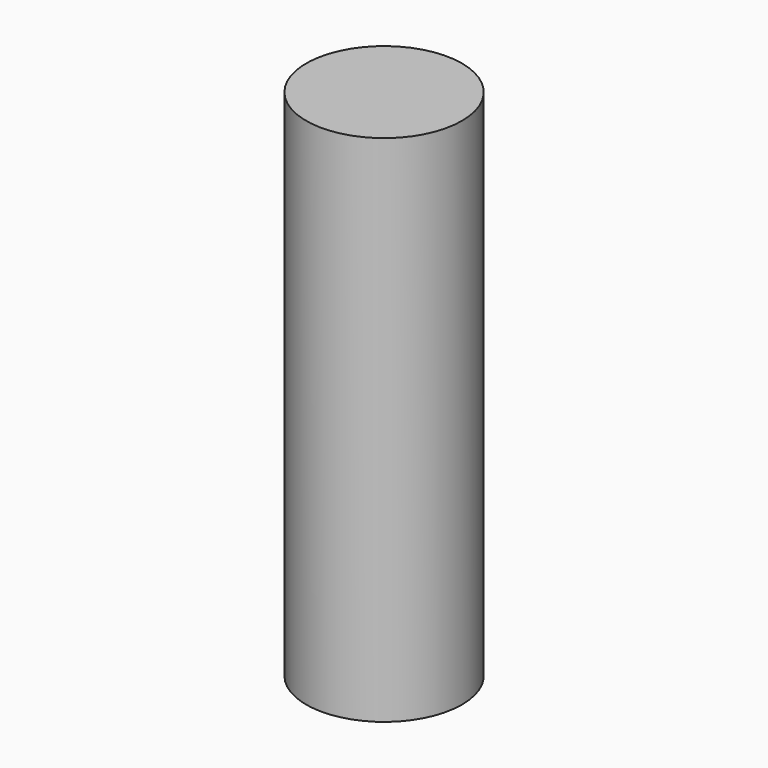
from build123d import *

# Parameters (mm, degrees)
F0_R       = 32.7181038806
F0_R_2     = 2.3607355304
F1_DEPTH   = 25.4
F2_DEPTH   = 64.008
F3_T       = -2.54
F5_R       = 42.4039305663
F6_DEPTH   = 25.4
F7_DEPTH   = 77.724
F8_R       = 42.4039305663
F7_FACE_R  = 42.4039305663
F6_FACE1_R = 42.4039305663
F9_DEPTH   = 127
F10_R      = 37.8949269506
F11_DEPTH  = 173.228
F12_DEPTH  = 279.908


with BuildPart() as f1:
    # F0 (on Top) → F1 (new body)
    with BuildSketch(Plane.XY):
        Circle(F0_R)
        Circle(F0_R_2, mode=Mode.SUBTRACT)
    extrude(amount=F1_DEPTH)

    # F2 (add): a face of the model
    f2_faces = [f1.faces().sort_by_distance(p)[0] for p in [
        (-31.7926961558, 0, 25.4),
    ]]
    extrude(f2_faces, amount=F2_DEPTH)

    # F3
    f3_openings = [f1.faces().sort_by_distance(p)[0] for p in [
        (-31.792696, 0, 89.408),
    ]]
    offset(amount=F3_T, openings=f3_openings)


with BuildPart() as f6:
    # F5 (on Top) → F6 (new body)
    with BuildSketch(Plane.XY):
        Circle(F5_R)
    extrude(amount=F6_DEPTH)

    # F7 (add): a face of the model
    f7_faces = [f6.faces().sort_by_distance(p)[0] for p in [
        (0, 0, 25.4),
    ]]
    extrude(f7_faces, amount=F7_DEPTH)

    # F8 (on face) + F7_face (on face) + F6_face1 (on face) → F9 (join)
    with BuildSketch(Plane.XY.offset(103.124)):
        Circle(F8_R)
    with BuildSketch(Plane.XY.offset(103.124)):
        Circle(F7_FACE_R)
    with BuildSketch(Plane(origin=(0, 0, 0), x_dir=(1, 0, 0), z_dir=(0, 0, -1))):
        Circle(F6_FACE1_R)
    extrude(amount=F9_DEPTH, dir=(0, 0, 1))

    # F10 (on Top) → F11 (join)
    with BuildSketch(Plane.XY):
        Circle(F10_R)
    extrude(amount=F11_DEPTH)

    # F12 (add): a face of the model
    f12_faces = [f6.faces().sort_by_distance(p)[0] for p in [
        (0, 0, 0),
    ]]
    extrude(f12_faces, amount=-F12_DEPTH)


solid = f6.part
